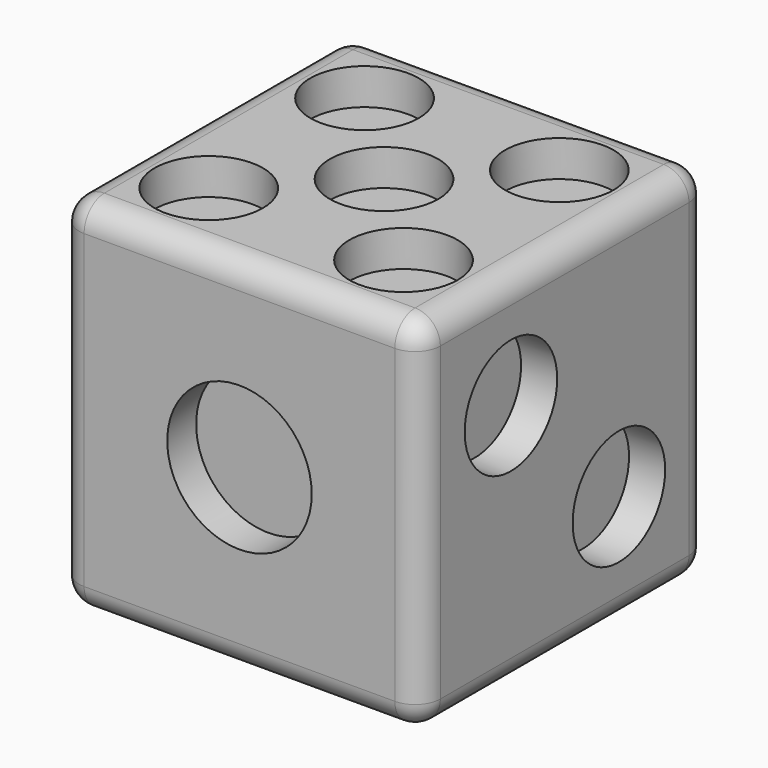
from build123d import *

# Parameters (mm, degrees)
F0_W      = 100
F0_H      = 100
F1_DEPTH  = 100
F3_R      = 20
F4_DEPTH  = 10
F5_R      = 15
F6_DEPTH  = 10
F7_R      = 16
F8_DEPTH  = 10
F2_R      = 16
F9_DEPTH  = 10
F10_R     = 11
F11_DEPTH = 10
F12_R     = 15
F13_DEPTH = 10
F14_R     = 7


with BuildPart() as f1:
    # F0 (on Front) → F1 (new body)
    with BuildSketch(Plane.XZ):
        Rectangle(F0_W, F0_H)
    extrude(amount=F1_DEPTH)

    # F3 (on face) → F4 (cut)
    with BuildSketch(Plane.XZ.offset(100)):
        Circle(F3_R)
    extrude(amount=-F4_DEPTH, mode=Mode.SUBTRACT)

    # F5 (on face) → F6 (cut)
    with BuildSketch(Plane.XY.offset(50)):
        with Locations((-26.872959, -77.044369)):
            Circle(F5_R)
        with Locations((27.032832, -77.044369)):
            Circle(F5_R)
        with Locations((27.032832, -23.138578)):
            Circle(F5_R)
        with Locations((-26.872959, -23.138578)):
            Circle(F5_R)
        with Locations((0.079937, -50.091474)):
            Circle(F5_R)
    extrude(amount=-F6_DEPTH, mode=Mode.SUBTRACT)

    # F7 (on face) → F8 (cut)
    with BuildSketch(Plane(origin=(0, 0, -50), x_dir=(1, 0, 0), z_dir=(0, 0, -1))):
        with Locations((-25, 75)):
            Circle(F7_R)
        with Locations((25, 75)):
            Circle(F7_R)
        with Locations((25, 25)):
            Circle(F7_R)
        with Locations((-25, 25)):
            Circle(F7_R)
    extrude(amount=-F8_DEPTH, mode=Mode.SUBTRACT)

    # F2 (on face) → F9 (cut)
    with BuildSketch(Plane.YZ.offset(50)):
        with Locations((-68.583503, 18.583503)):
            Circle(F2_R)
        with Locations((-31.224914, -18.775086)):
            Circle(F2_R)
    extrude(amount=-F9_DEPTH, mode=Mode.SUBTRACT)

    # F10 (on face) → F11 (cut)
    with BuildSketch(Plane(origin=(-50, 0, 0), x_dir=(0, -1, 0), z_dir=(-1, 0, 0))):
        with Locations((25, 25)):
            Circle(F10_R)
        with Locations((25, 0)):
            Circle(F10_R)
        with Locations((25, -25)):
            Circle(F10_R)
        with Locations((75, -25)):
            Circle(F10_R)
        with Locations((75, 0)):
            Circle(F10_R)
        with Locations((75, 25)):
            Circle(F10_R)
    extrude(amount=-F11_DEPTH, mode=Mode.SUBTRACT)

    # F12 (on face) → F13 (cut)
    with BuildSketch(Plane.XZ):
        Circle(F12_R)
        with Locations((-24.242424, 24.242424)):
            Circle(F12_R)
        with Locations((24.242424, -24.242424)):
            Circle(F12_R)
    extrude(amount=F13_DEPTH, mode=Mode.SUBTRACT)

    # F14
    f14_edges = [f1.edges().sort_by_distance(p)[0] for p in [
        (-50, -50, 50),
        (0, -100, -50),
        (0, -100, 50),
        (-50, -100, 0),
        (50, -100, 0),
        (50, -50, -50),
        (50, 0, 0),
        (50, -50, 50),
        (0, 0, 50),
        (0, 0, -50),
        (-50, 0, 0),
        (-50, -50, -50),
    ]]
    fillet(f14_edges, radius=F14_R)


solid = f1.part
